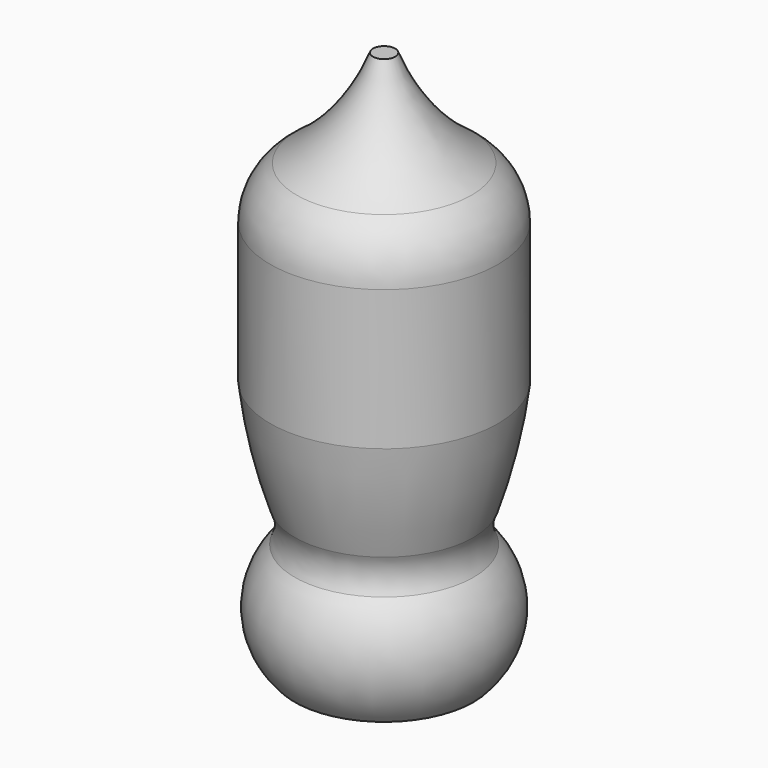
from build123d import *


with BuildPart() as f1:
    # F0 (on Front) → F1 (revolve)
    with BuildSketch(Plane.XZ):
        with BuildLine():
            Line((3.060428, 73.329048), (0, 73.329048))
            Line((0, 73.329048), (0, -76.670952))
            Line((0, -76.670952), (24.744014, -76.670952))
            ThreePointArc((24.744014, -76.670952), (30.906499, -61.488585), (24.744014, -46.306219))
            ThreePointArc((24.744014, -46.306219), (23.577109, -41.447862), (24.744014, -36.589504))
            ThreePointArc((24.744014, -36.589504), (28.917597, -21.824586), (31.5, -6.700011))
            Line((31.5, -6.700011), (31.5, 32.027679))
            ThreePointArc((31.5, 32.027679), (29.555158, 40.130907), (24.144346, 46.468717))
            ThreePointArc((24.144346, 46.468717), (11.612197, 58.33669), (3.060428, 73.329048))
        make_face()
    revolve(axis=Axis((0, 0, 1.518237), (0, 0, -1)))


solid = f1.part
